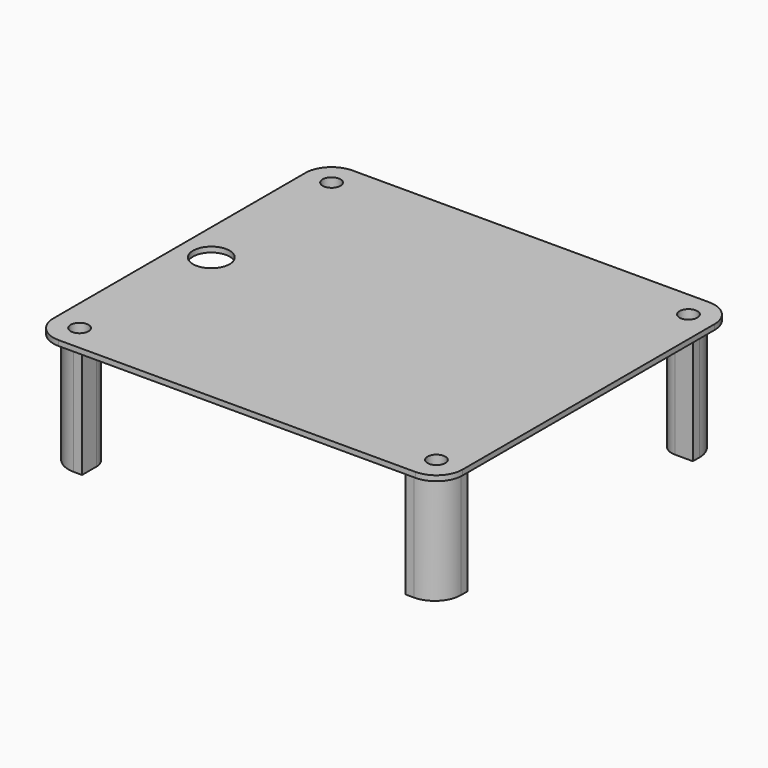
from build123d import *

# Parameters (mm, degrees)
SKETCH006_W                        = 78.2
SKETCH006_H                        = 70.2
PAD004_DEPTH                       = 1
SKETCH011_R                        = 1.7
POCKET004_DEPTH                    = 211.184539
POCKET004_DEPTH_BACK               = 210.184539
SKETCH011_MIRRORED009_2_R          = 1.7
POCKET004_MIRRORED009_2_DEPTH      = 211.184539
POCKET004_MIRRORED009_2_DEPTH_BACK = -210.184539
SKETCH015_R                        = 1.7
PAD008_DEPTH                       = 22.3
SKETCH015_MIRRORED017_2_R          = 1.7
PAD008_MIRRORED017_2_DEPTH         = 22.3
SKETCH023_R                        = 3.5
POCKET014_DEPTH                    = 5
FILLET003_R                        = 5


with BuildPart() as part:
    # Sketch006 → Pad004 (new body)
    with BuildSketch(Plane.XY):
        Rectangle(SKETCH006_W, SKETCH006_H)
    extrude(amount=-PAD004_DEPTH)

    # Sketch011 → Pocket004 (cut, two sides)
    with BuildSketch(Plane.XY) as pocket004_sk:
        with Locations((-34.1, 30.1)):
            Circle(SKETCH011_R)
    pocket004 = extrude(amount=-POCKET004_DEPTH, mode=Mode.SUBTRACT) + extrude(pocket004_sk.sketch, amount=POCKET004_DEPTH_BACK, mode=Mode.SUBTRACT)

    # Sketch011 Mirrored009 2 → Pocket004 Mirrored009 2 (cut, two sides)
    with BuildSketch(Plane(origin=(0, 0, 0), x_dir=(-1, 0, 0), z_dir=(0, 0, -1))) as pocket004_mirrored009_2_sk:
        with Locations((-34.1, 30.1)):
            Circle(SKETCH011_MIRRORED009_2_R)
    pocket004_mirrored009_2 = extrude(amount=POCKET004_MIRRORED009_2_DEPTH, mode=Mode.SUBTRACT) + extrude(pocket004_mirrored009_2_sk.sketch, amount=-POCKET004_MIRRORED009_2_DEPTH_BACK, mode=Mode.SUBTRACT)

    # Mirrored010: Pocket004, Pocket004 Mirrored009 2 across Sketch011 H_Axis
    add(pocket004.mirror(Plane.ZX), mode=Mode.SUBTRACT)
    add(pocket004_mirrored009_2.mirror(Plane.ZX), mode=Mode.SUBTRACT)

    # Sketch015 → Pad008 (join)
    with BuildSketch(Plane.XY):
        with BuildLine():
            ThreePointArc((-34.1, 26.9), (-31.837258, 27.837258), (-30.9, 30.1))
            Line((-30.9, 30.1), (-30.9, 33.5))
            Line((-30.9, 33.5), (-37.5, 33.5))
            Line((-37.5, 33.5), (-37.5, 26.9))
            Line((-37.5, 26.9), (-34.1, 26.9))
        make_face()
        with Locations((-34.1, 30.1)):
            Circle(SKETCH015_R, mode=Mode.SUBTRACT)
    pad008 = extrude(amount=-PAD008_DEPTH)

    # Sketch015 Mirrored017 2 → Pad008 Mirrored017 2 (add)
    with BuildSketch(Plane(origin=(0, 0, 0), x_dir=(-1, 0, 0), z_dir=(0, 0, -1))):
        with BuildLine():
            ThreePointArc((-34.1, 26.9), (-31.837258, 27.837258), (-30.9, 30.1))
            Line((-30.9, 30.1), (-30.9, 33.5))
            Line((-30.9, 33.5), (-37.5, 33.5))
            Line((-37.5, 33.5), (-37.5, 26.9))
            Line((-37.5, 26.9), (-34.1, 26.9))
        make_face()
        with Locations((-34.1, 30.1)):
            Circle(SKETCH015_MIRRORED017_2_R, mode=Mode.SUBTRACT)
    pad008_mirrored017_2 = extrude(amount=PAD008_MIRRORED017_2_DEPTH)

    # Mirrored018: Pad008, Pad008 Mirrored017 2 across Sketch015 H_Axis
    add(pad008.mirror(Plane.ZX))
    add(pad008_mirrored017_2.mirror(Plane.ZX))

    # Sketch023 → Pocket014 (cut)
    with BuildSketch(Plane.XY):
        with Locations((-33, 0)):
            Circle(SKETCH023_R)
    extrude(amount=-POCKET014_DEPTH, mode=Mode.SUBTRACT)

    # Fillet003
    fillet003_edges = [part.edges().sort_by_distance(p)[0] for p in [
        (37.5, 33.5, -11.65),
        (39.1, 35.1, -0.5),
        (37.5, -33.5, -11.65),
        (39.1, -35.1, -0.5),
        (-39.1, -35.1, -0.5),
        (-37.5, -33.5, -11.65),
        (-37.5, 33.5, -11.65),
        (-39.1, 35.1, -0.5),
    ]]
    fillet(fillet003_edges, radius=FILLET003_R)


solid = part.part
